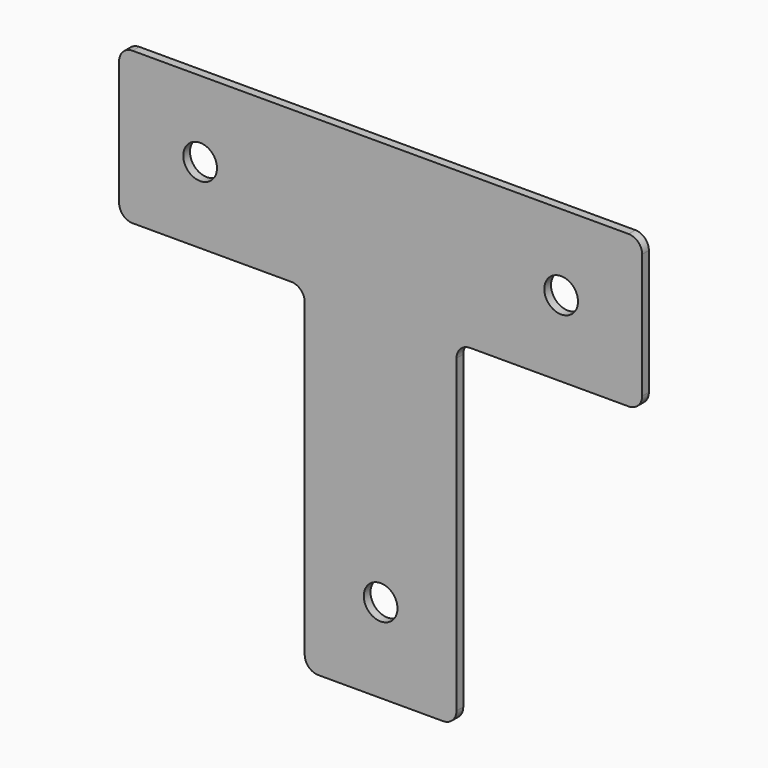
from build123d import *

# Parameters (mm, degrees)
F0_R     = 5
F1_DEPTH = 2.5


with BuildPart() as f1:
    # F0 (on Front) → F1 (new body)
    with BuildSketch(Plane.XZ):
        with BuildLine():
            ThreePointArc((77.5, 18.5), (76.328427, 21.328427), (73.5, 22.5))
            Line((73.5, 22.5), (-73.5, 22.5))
            ThreePointArc((-73.5, 22.5), (-76.328427, 21.328427), (-77.5, 18.5))
            Line((-77.5, 18.5), (-77.5, -18.5))
            ThreePointArc((-77.5, -18.5), (-76.328427, -21.328427), (-73.5, -22.5))
            Line((-73.5, -22.5), (-26.5, -22.5))
            Line((-26.5, -22.5), (22.5, -22.5))
            Line((22.5, -22.5), (26.5, -22.5))
            Line((26.5, -22.5), (73.5, -22.5))
            ThreePointArc((73.5, -22.5), (76.328427, -21.328427), (77.5, -18.5))
            Line((77.5, -18.5), (77.5, 18.5))
        make_face()
        with Locations((-53.5, 0)):
            Circle(F0_R, mode=Mode.SUBTRACT)
        with Locations((53.5, 0)):
            Circle(F0_R, mode=Mode.SUBTRACT)
        with BuildLine():
            ThreePointArc((22.5, -26.5), (23.671573, -23.671573), (26.5, -22.5))
            Line((26.5, -22.5), (22.5, -22.5))
            Line((22.5, -22.5), (-26.5, -22.5))
            ThreePointArc((-26.5, -22.5), (-23.671573, -23.671573), (-22.5, -26.5))
            Line((-22.5, -26.5), (-22.5, -118.5))
            ThreePointArc((-22.5, -118.5), (-21.328427, -121.328427), (-18.5, -122.5))
            Line((-18.5, -122.5), (18.5, -122.5))
            ThreePointArc((18.5, -122.5), (21.328427, -121.328427), (22.5, -118.5))
            Line((22.5, -118.5), (22.5, -26.5))
        make_face()
        with Locations((0, -97.5)):
            Circle(F0_R, mode=Mode.SUBTRACT)
    extrude(amount=F1_DEPTH)


solid = f1.part
